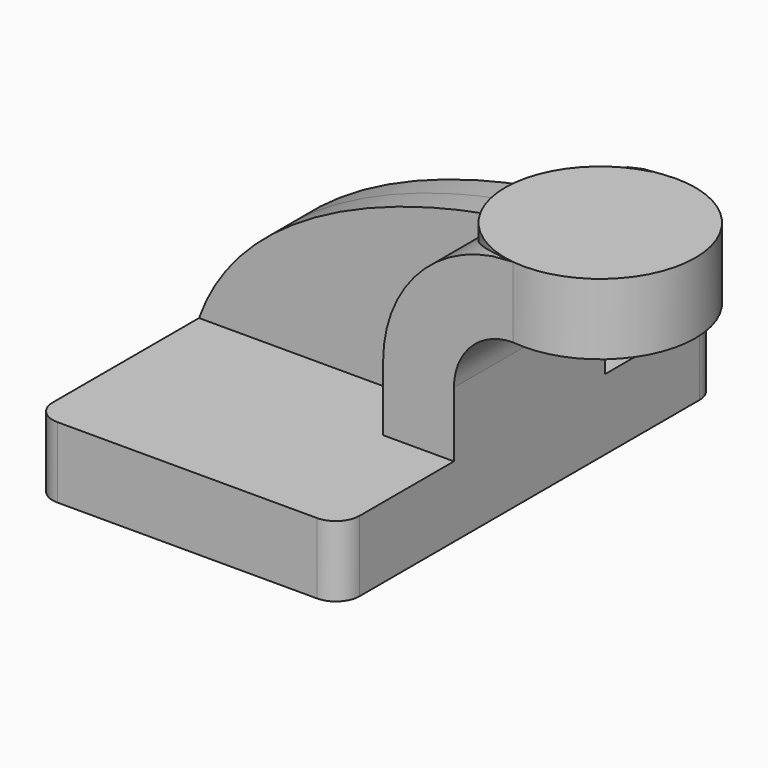
from build123d import *

# Parameters (mm, degrees)
F1_DEPTH = 63.5
F2_DEPTH = 25.4
F3_DEPTH = 7.9375
F0_W     = 25.5907994721
F0_H     = 19.05
F5_R     = 6.35


with BuildPart() as f1:
    # F0 (on Front) → F1 (new body, symmetric)
    with BuildSketch(Plane.XZ):
        Polygon((22.225, 9.525), (-41.275, 9.525), (-41.275, -9.525), (41.275, -9.525), (41.275, 9.525), align=None)
    extrude(amount=F1_DEPTH, both=True)

    # F0 (on Front) → F2 (join, symmetric)
    with BuildSketch(Plane.XZ):
        with BuildLine():
            Line((22.225, 27.0002), (22.225, 9.525))
            Line((22.225, 9.525), (41.275, 9.525))
            Line((41.275, 9.525), (41.275, 27.0002))
            ThreePointArc((41.275, 27.0002), (45.9246798487, 38.2255201513), (57.15, 42.8752))
            Line((57.15, 42.8752), (60.325, 42.8752))
            Line((60.325, 42.8752), (60.325, 61.9252))
            Line((60.325, 61.9252), (57.15, 61.9252))
            add(Edge.make_bspline(
                [(51.5354770489, 61.4709521971), (53.4127539881, 61.6507047986), (55.2854096398, 61.802043629), (57.15, 61.9252)],
                knots=[106.4817518013, 106.4817518013, 106.4817518013, 106.4817518013, 111.5045361635, 111.5045361635, 111.5045361635, 111.5045361635], degree=3))
            ThreePointArc((51.5354770489, 61.4709521971), (30.5432072671, 49.6239531251), (22.225, 27.0002))
        make_face()
    extrude(amount=F2_DEPTH, both=True)

    # F0 (on Front) → F3 (join, symmetric)
    with BuildSketch(Plane.XZ):
        with BuildLine():
            add(Edge.make_bspline(
                [(-41.275, 9.525), (-30.1370525235, 41.0795542305), (11.7376830989, 57.6602427342), (51.5354770489, 61.4709521971)],
                knots=[0, 0, 0, 0, 106.4817518013, 106.4817518013, 106.4817518013, 106.4817518013], degree=3))
            Line((-41.275, 9.525), (22.225, 9.525))
            Line((22.225, 9.525), (22.225, 27.0002))
            ThreePointArc((22.225, 27.0002), (30.5432072671, 49.6239531251), (51.5354770489, 61.4709521971))
        make_face()
    extrude(amount=F3_DEPTH, both=True)

    # F0 (on Front) → F4 (revolve)
    with BuildSketch(Plane.XZ):
        with Locations((73.120399736, 52.4002)):
            Rectangle(F0_W, F0_H)
    revolve(axis=Axis((60.325, 0, 52.3875), (0, 0, 1)))

    # F5
    f5_edges = [f1.edges().sort_by_distance(p)[0] for p in [
        (41.275, -63.5, 0),
        (-41.275, -63.5, 0),
        (-41.275, 63.5, 0),
        (41.275, 63.5, 0),
    ]]
    fillet(f5_edges, radius=F5_R)


solid = f1.part
